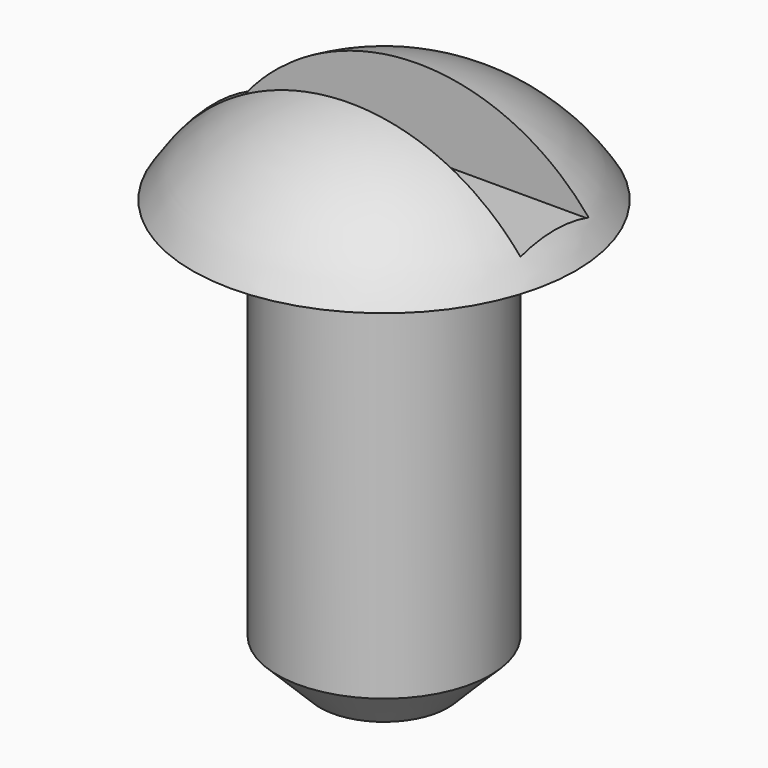
from build123d import *

# Parameters (mm, degrees)
F3_W     = 10.16
F3_H     = 2.54
F4_DEPTH = 6.1468
F5_SIZE  = 1.27


with BuildPart() as f1:
    # F0 (on Front) → F1 (revolve)
    with BuildSketch(Plane.XZ):
        with BuildLine():
            Line((0, 15.875), (0, 0))
            Line((0, 0), (3.175, 0))
            Line((3.175, 0), (3.175, 12.7))
            Line((3.175, 12.7), (5.715, 12.7))
            ThreePointArc((5.715, 12.7), (3.268863, 15.027953), (0, 15.875))
        make_face()
    revolve(axis=Axis((0, 0, 7.9375), (0, 0, -1)))

    # F3 (on offset) → F4 (cut)
    with BuildSketch(Plane(origin=(0, 0, 13.335), x_dir=(1, 0, 0), z_dir=(0, 0, -1))):
        Rectangle(F3_W, F3_H)
    extrude(amount=-F4_DEPTH, mode=Mode.SUBTRACT)

    # F5
    f5_edges = [f1.edges().sort_by_distance(p)[0] for p in [
        (-3.175, 0, 0),
    ]]
    chamfer(f5_edges, length=F5_SIZE)


solid = f1.part
